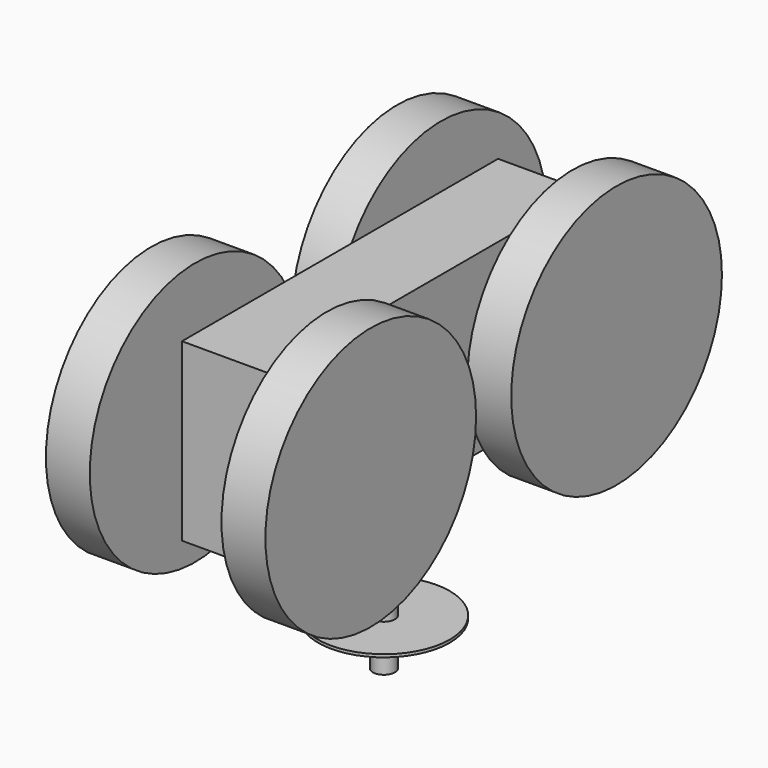
from build123d import *

# Parameters (mm, degrees)
F0_W      = 114.3
F0_H      = 50.8
F1_DEPTH  = 12.7
F2_R      = 3.175
F3_DEPTH  = 38.1
F4_R      = 3.175
F5_DEPTH  = 6.35
F6_R      = 38.1
F7_DEPTH  = 12.7
F9_R      = 19.05
F10_DEPTH = 0.8128
F11_R     = 3.175
F12_DEPTH = 12.7


with BuildPart() as f1:
    # F0 (on Right) → F1 (new body, symmetric)
    with BuildSketch(Plane.YZ):
        Rectangle(F0_W, F0_H)
    extrude(amount=F1_DEPTH, both=True)

    # F2 (on face) → F3 (join)
    with BuildSketch(Plane(origin=(0, 0, -25.4), x_dir=(1, 0, 0), z_dir=(0, 0, -1))):
        Circle(F2_R)
    extrude(amount=F3_DEPTH)

    # F4 (on face) → F5 (join)
    with BuildSketch(Plane.YZ.offset(12.7)):
        with Locations((-44.45, 0)):
            Circle(F4_R)
        with Locations((44.45, 0)):
            Circle(F4_R)
    extrude(amount=F5_DEPTH)

    # F6 (on face) → F7 (join)
    with BuildSketch(Plane.YZ.offset(19.05)):
        with Locations((-44.45, 0)):
            Circle(F6_R)
        with Locations((44.45, 0)):
            Circle(F6_R)
    extrude(amount=F7_DEPTH)

    # F8: F1 across plane


with BuildPart() as f1_1:
    add(f1.part)
    add(f1.part.mirror(Plane.YZ))

    # F9 (on face) → F10 (join)
    with BuildSketch(Plane(origin=(0, 0, -63.5), x_dir=(1, 0, 0), z_dir=(0, 0, -1))):
        Circle(F9_R)
    extrude(amount=F10_DEPTH)

    # F11 (on face) → F12 (join)
    with BuildSketch(Plane(origin=(0, 0, -64.3128), x_dir=(1, 0, 0), z_dir=(0, 0, -1))):
        Circle(F11_R)
    extrude(amount=F12_DEPTH)


solid = f1_1.part
